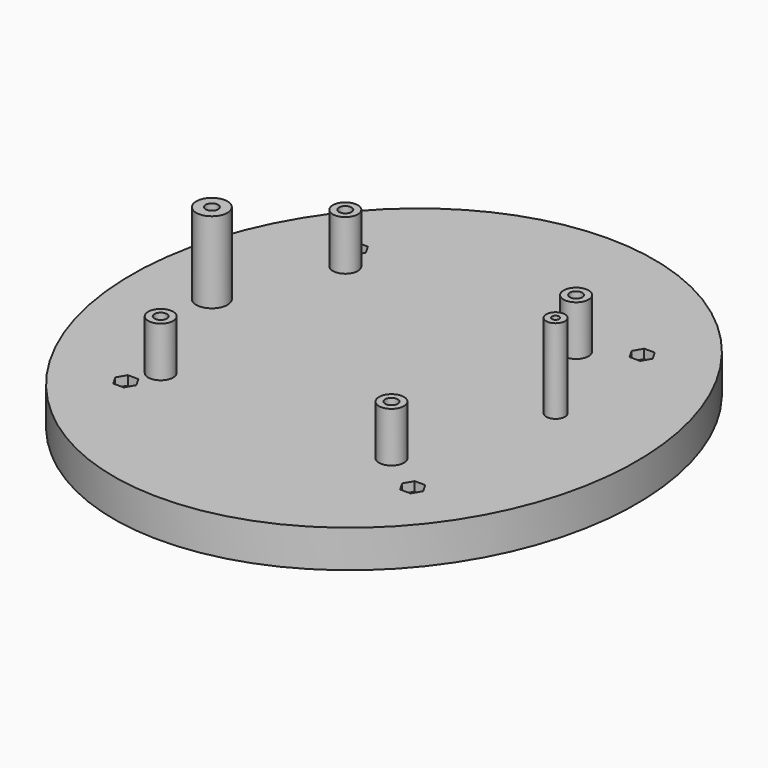
from build123d import *

# Parameters (mm, degrees)
EXTRUDE010_DEPTH            = 2.95
CYLINDER026_R               = 6.5
CYLINDER026_DEPTH           = 12.5
CYLINDER026_ROLL_ANGLE      = 90
CYLINDER026_PITCH_ANGLE     = -45
CYLINDER027_R               = 6.5
CYLINDER027_DEPTH           = 12.5
CYLINDER027_ROLL_ANGLE      = 90
CYLINDER027_PITCH_ANGLE     = 45
CYLINDER028_R               = 6.5
CYLINDER028_DEPTH           = 12.5
CYLINDER028_ROLL_ANGLE      = -90
CYLINDER028_PITCH_ANGLE     = -45
CYLINDER028_PLACEMENT_ANGLE = 180
CYLINDER025_R               = 6.5
CYLINDER025_DEPTH           = 12.5
CYLINDER025_ROLL_ANGLE      = 90
CYLINDER025_PITCH_ANGLE     = 45
FUSION191_PLACEMENT_ANGLE   = 90
CYLINDER022_R               = 1.65
CYLINDER022_DEPTH           = 20
CYLINDER022_ROLL_ANGLE      = 90
CYLINDER022_PITCH_ANGLE     = -45
CYLINDER023_R               = 1.65
CYLINDER023_DEPTH           = 20
CYLINDER023_ROLL_ANGLE      = 90
CYLINDER023_PITCH_ANGLE     = 45
CYLINDER024_R               = 1.65
CYLINDER024_DEPTH           = 20
CYLINDER024_ROLL_ANGLE      = -90
CYLINDER024_PITCH_ANGLE     = -45
CYLINDER024_PLACEMENT_ANGLE = 180
CYLINDER021_R               = 1.65
CYLINDER021_DEPTH           = 20
CYLINDER021_ROLL_ANGLE      = 90
CYLINDER021_PITCH_ANGLE     = 45
FUSION190_PLACEMENT_ANGLE   = 90
TUBE012_R                   = 5
TUBE012_R_2                 = 2
TUBE012_DEPTH               = 29
TUBE013_R                   = 3
TUBE013_R_2                 = 1.15
TUBE013_DEPTH               = 30
TUBE009_R                   = 4
TUBE009_R_2                 = 2
TUBE009_DEPTH               = 19
TUBE010_R                   = 4
TUBE010_R_2                 = 2
TUBE010_DEPTH               = 19
TUBE011_R                   = 4
TUBE011_R_2                 = 2
TUBE011_DEPTH               = 19
TUBE008_R                   = 4
TUBE008_R_2                 = 2
TUBE008_DEPTH               = 19
COMPOUND_PLACEMENT_ANGLE    = 270
EXTRUDE003_DEPTH            = 12


with BuildPart() as obj1:
    # Sketch010 (on Fillet) → Extrude010 (new body)
    with BuildSketch(Plane.XY):
        Polygon((-44.31125, 43.075), (-42.622501, 46), (-44.31125, 48.925), (-47.68875, 48.925), (-49.377499, 46), (-47.68875, 43.075), align=None)
        Polygon((47.68875, 43.075), (49.377499, 46), (47.68875, 48.925), (44.31125, 48.925), (42.622501, 46), (44.31125, 43.075), align=None)
        Polygon((47.68875, -48.925), (49.377499, -46), (47.68875, -43.075), (44.31125, -43.075), (42.622501, -46), (44.31125, -48.925), align=None)
        Polygon((-44.31125, -48.925), (-42.622501, -46), (-44.31125, -43.075), (-47.68875, -43.075), (-49.377499, -46), (-47.68875, -48.925), align=None)
    extrude(amount=EXTRUDE010_DEPTH)


with BuildPart() as obj1_1:
    # Extrude010 placement: moved
    add(obj1.part.moved(Location((0, 0, 90.05))))


with BuildPart() as cylinder026:
    # Cylinder026 → Cylinder026 (new body)
    with BuildSketch(Plane.XY):
        Circle(CYLINDER026_R)
    extrude(amount=CYLINDER026_DEPTH)


with BuildPart() as cylinder026_1:
    # Cylinder026 roll: moved
    add(cylinder026.part.rotate(Axis((0, 0, 0), (1, 0, 0)), CYLINDER026_ROLL_ANGLE))


with BuildPart() as cylinder026_2:
    # Cylinder026 pitch: moved
    add(cylinder026_1.part.rotate(Axis((0, 0, 0), (0, 1, 0)), CYLINDER026_PITCH_ANGLE))


with BuildPart() as cylinder026_3:
    # Cylinder026 placement: moved
    add(cylinder026_2.part.moved(Location((-45.961941, 57, 45.961941))))


with BuildPart() as cylinder027:
    # Cylinder027 → Cylinder027 (new body)
    with BuildSketch(Plane.XY):
        Circle(CYLINDER027_R)
    extrude(amount=CYLINDER027_DEPTH)


with BuildPart() as cylinder027_1:
    # Cylinder027 roll: moved
    add(cylinder027.part.rotate(Axis((0, 0, 0), (1, 0, 0)), CYLINDER027_ROLL_ANGLE))


with BuildPart() as cylinder027_2:
    # Cylinder027 pitch: moved
    add(cylinder027_1.part.rotate(Axis((0, 0, 0), (0, 1, 0)), CYLINDER027_PITCH_ANGLE))


with BuildPart() as cylinder027_3:
    # Cylinder027 placement: moved
    add(cylinder027_2.part.moved(Location((45.961941, 57, -45.961941))))


with BuildPart() as cylinder028:
    # Cylinder028 → Cylinder028 (new body)
    with BuildSketch(Plane.XY):
        Circle(CYLINDER028_R)
    extrude(amount=CYLINDER028_DEPTH)


with BuildPart() as cylinder028_1:
    # Cylinder028 roll: moved
    add(cylinder028.part.rotate(Axis((0, 0, 0), (1, 0, 0)), CYLINDER028_ROLL_ANGLE))


with BuildPart() as cylinder028_2:
    # Cylinder028 pitch: moved
    add(cylinder028_1.part.rotate(Axis((0, 0, 0), (0, 1, 0)), CYLINDER028_PITCH_ANGLE))


with BuildPart() as cylinder028_3:
    # Cylinder028 placement: moved
    add(cylinder028_2.part.moved(Location((-45.961941, 57, -45.961941))).rotate(Axis((-45.961941, 57, -45.961941), (0, 0, 1)), CYLINDER028_PLACEMENT_ANGLE))


with BuildPart() as m3head001:
    # Cylinder025 → Cylinder025 (new body)
    with BuildSketch(Plane.XY):
        Circle(CYLINDER025_R)
    extrude(amount=CYLINDER025_DEPTH)


with BuildPart() as m3head001_1:
    # Cylinder025 roll: moved
    add(m3head001.part.rotate(Axis((0, 0, 0), (1, 0, 0)), CYLINDER025_ROLL_ANGLE))


with BuildPart() as m3head001_2:
    # Cylinder025 pitch: moved
    add(m3head001_1.part.rotate(Axis((0, 0, 0), (0, 1, 0)), CYLINDER025_PITCH_ANGLE))


with BuildPart() as m3head001_3:
    # Cylinder025 placement: moved
    add(m3head001_2.part.moved(Location((45.961941, 57, 45.961941))))

    # Fusion191: union Cylinder026, Cylinder027, Cylinder028
    add(cylinder026_3.part)
    add(cylinder027_3.part)
    add(cylinder028_3.part)


with BuildPart() as m3head001_4:
    # Fusion191 placement: moved
    add(m3head001_3.part.moved(Location((0, 0, 23))).rotate(Axis((0, 0, 23), (1, 0, 0)), FUSION191_PLACEMENT_ANGLE))


with BuildPart() as cylinder022:
    # Cylinder022 → Cylinder022 (new body)
    with BuildSketch(Plane.XY):
        Circle(CYLINDER022_R)
    extrude(amount=CYLINDER022_DEPTH)


with BuildPart() as cylinder022_1:
    # Cylinder022 roll: moved
    add(cylinder022.part.rotate(Axis((0, 0, 0), (1, 0, 0)), CYLINDER022_ROLL_ANGLE))


with BuildPart() as cylinder022_2:
    # Cylinder022 pitch: moved
    add(cylinder022_1.part.rotate(Axis((0, 0, 0), (0, 1, 0)), CYLINDER022_PITCH_ANGLE))


with BuildPart() as cylinder022_3:
    # Cylinder022 placement: moved
    add(cylinder022_2.part.moved(Location((-45.961941, 57, 45.961941))))


with BuildPart() as cylinder023:
    # Cylinder023 → Cylinder023 (new body)
    with BuildSketch(Plane.XY):
        Circle(CYLINDER023_R)
    extrude(amount=CYLINDER023_DEPTH)


with BuildPart() as cylinder023_1:
    # Cylinder023 roll: moved
    add(cylinder023.part.rotate(Axis((0, 0, 0), (1, 0, 0)), CYLINDER023_ROLL_ANGLE))


with BuildPart() as cylinder023_2:
    # Cylinder023 pitch: moved
    add(cylinder023_1.part.rotate(Axis((0, 0, 0), (0, 1, 0)), CYLINDER023_PITCH_ANGLE))


with BuildPart() as cylinder023_3:
    # Cylinder023 placement: moved
    add(cylinder023_2.part.moved(Location((45.961941, 57, -45.961941))))


with BuildPart() as cylinder024:
    # Cylinder024 → Cylinder024 (new body)
    with BuildSketch(Plane.XY):
        Circle(CYLINDER024_R)
    extrude(amount=CYLINDER024_DEPTH)


with BuildPart() as cylinder024_1:
    # Cylinder024 roll: moved
    add(cylinder024.part.rotate(Axis((0, 0, 0), (1, 0, 0)), CYLINDER024_ROLL_ANGLE))


with BuildPart() as cylinder024_2:
    # Cylinder024 pitch: moved
    add(cylinder024_1.part.rotate(Axis((0, 0, 0), (0, 1, 0)), CYLINDER024_PITCH_ANGLE))


with BuildPart() as cylinder024_3:
    # Cylinder024 placement: moved
    add(cylinder024_2.part.moved(Location((-45.961941, 57, -45.961941))).rotate(Axis((-45.961941, 57, -45.961941), (0, 0, 1)), CYLINDER024_PLACEMENT_ANGLE))


with BuildPart() as obj2:
    # Cylinder021 → Cylinder021 (new body)
    with BuildSketch(Plane.XY):
        Circle(CYLINDER021_R)
    extrude(amount=CYLINDER021_DEPTH)


with BuildPart() as obj2_1:
    # Cylinder021 roll: moved
    add(obj2.part.rotate(Axis((0, 0, 0), (1, 0, 0)), CYLINDER021_ROLL_ANGLE))


with BuildPart() as obj2_2:
    # Cylinder021 pitch: moved
    add(obj2_1.part.rotate(Axis((0, 0, 0), (0, 1, 0)), CYLINDER021_PITCH_ANGLE))


with BuildPart() as obj2_3:
    # Cylinder021 placement: moved
    add(obj2_2.part.moved(Location((45.961941, 57, 45.961941))))

    # Fusion190: union Cylinder022, Cylinder023, Cylinder024
    add(cylinder022_3.part)
    add(cylinder023_3.part)
    add(cylinder024_3.part)


with BuildPart() as obj2_4:
    # Fusion190 placement: moved
    add(obj2_3.part.moved(Location((0, 0, 36))).rotate(Axis((0, 0, 36), (1, 0, 0)), FUSION190_PLACEMENT_ANGLE))

    # Fusion192: union m3Head001
    add(m3head001_4.part)


with BuildPart() as obj2_5:
    # Fusion192 placement: moved
    add(obj2_4.part.moved(Location((0, 0, 8))))


with BuildPart() as obj3:
    # Tube012 → Tube012 (new body)
    with BuildSketch(Plane(origin=(-52, 9, 2.25), x_dir=(1, 0, 0), z_dir=(0, 1, 0))):
        Circle(TUBE012_R)
        Circle(TUBE012_R_2, mode=Mode.SUBTRACT)
    extrude(amount=TUBE012_DEPTH)


with BuildPart() as m2_ips7100:
    # Tube013 → Tube013 (new body)
    with BuildSketch(Plane(origin=(53.9, 8, 7.65), x_dir=(1, 0, 0), z_dir=(0, 1, 0))):
        Circle(TUBE013_R)
        Circle(TUBE013_R_2, mode=Mode.SUBTRACT)
    extrude(amount=TUBE013_DEPTH)


with BuildPart() as tube009:
    # Tube009 → Tube009 (new body)
    with BuildSketch(Plane(origin=(-37, 19, 37), x_dir=(1, 0, 0), z_dir=(0, 1, 0))):
        Circle(TUBE009_R)
        Circle(TUBE009_R_2, mode=Mode.SUBTRACT)
    extrude(amount=TUBE009_DEPTH)


with BuildPart() as tube010:
    # Tube010 → Tube010 (new body)
    with BuildSketch(Plane(origin=(37, 19, 37), x_dir=(1, 0, 0), z_dir=(0, 1, 0))):
        Circle(TUBE010_R)
        Circle(TUBE010_R_2, mode=Mode.SUBTRACT)
    extrude(amount=TUBE010_DEPTH)


with BuildPart() as tube011:
    # Tube011 → Tube011 (new body)
    with BuildSketch(Plane(origin=(37, 19, -37), x_dir=(1, 0, 0), z_dir=(0, 1, 0))):
        Circle(TUBE011_R)
        Circle(TUBE011_R_2, mode=Mode.SUBTRACT)
    extrude(amount=TUBE011_DEPTH)


with BuildPart() as m3m2cyl:
    # Tube008 → Tube008 (new body)
    with BuildSketch(Plane(origin=(-37, 19, -37), x_dir=(1, 0, 0), z_dir=(0, 1, 0))):
        Circle(TUBE008_R)
        Circle(TUBE008_R_2, mode=Mode.SUBTRACT)
    extrude(amount=TUBE008_DEPTH)

    # Fusion003: union Tube009, Tube010, Tube011
    add(tube009.part)
    add(tube010.part)
    add(tube011.part)

    # Compound: union obj3, m2_IPS7100
    add(obj3.part)
    add(m2_ips7100.part)


with BuildPart() as m3m2cyl_1:
    # Compound placement: moved
    add(m3m2cyl.part.moved(Location((-5, 0, 128))).rotate(Axis((-5, 0, 128), (1, 0, 0)), COMPOUND_PLACEMENT_ANGLE))


with BuildPart() as cut009:
    # Sketch003 → Extrude003 (new body)
    with BuildSketch(Plane.XY):
        with BuildLine():
            add(Edge.make_bspline(
                [(0, 90), (-140.296115, 90), (-70.148058, -45), (0, -180), (70.148058, -45), (140.296115, 90), (0, 90)],
                knots=[0, 0, 0, 2.094395, 2.094395, 4.18879, 4.18879, 6.283185, 6.283185, 6.283185], degree=2, weights=[1, 0.5, 1, 0.5, 1, 0.5, 1]))
        make_face()
    extrude(amount=EXTRUDE003_DEPTH)


with BuildPart() as cut009_1:
    # Extrude003 placement: moved
    add(cut009.part.moved(Location((0, 0, 81))))

    # Fusion186: union m3m2Cyl
    add(m3m2cyl_1.part)

    # Cut008: cut obj2
    add(obj2_5.part, mode=Mode.SUBTRACT)

    # Cut009: cut obj1
    add(obj1_1.part, mode=Mode.SUBTRACT)


solid = cut009_1.part
